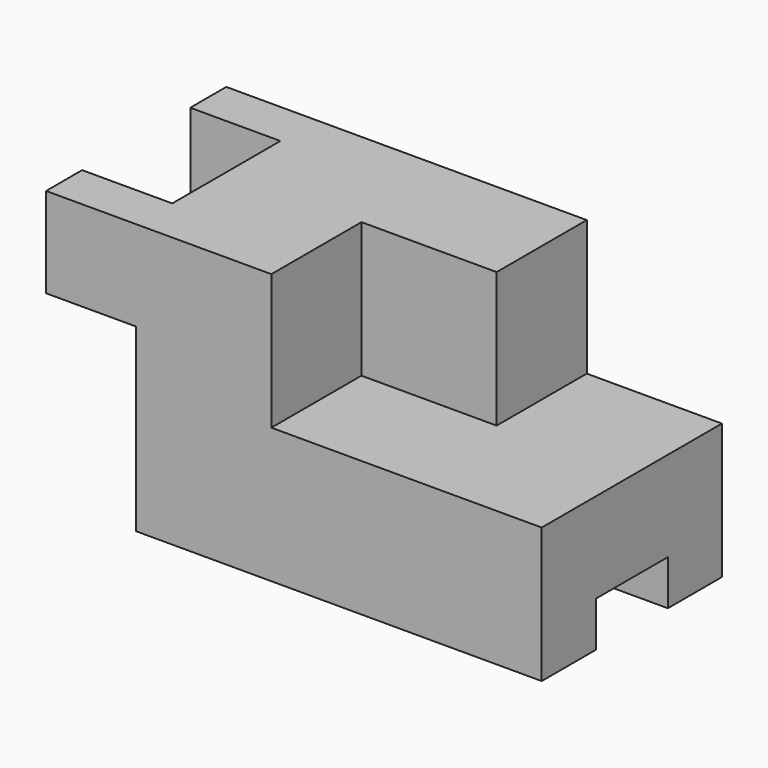
from build123d import *

# Parameters (mm, degrees)
F0_W     = 110
F0_H     = 50
F1_DEPTH = 60
F3_DEPTH = 30
F4_W     = 20
F4_H     = 20
F5_DEPTH = 110.001
F6_W     = 40
F6_H     = 30
F7_DEPTH = 60.001
F8_W     = 20
F8_H     = 40
F9_DEPTH = 50.001


with BuildPart() as f1:
    # F0 (on Top) → F1 (new body)
    with BuildSketch(Plane.XY):
        Rectangle(F0_W, F0_H)
    extrude(amount=F1_DEPTH)

    # F2 (on face) → F3 (cut)
    with BuildSketch(Plane.XY.offset(60)):
        Polygon((55, 25), (25, 25), (25, 0), (-5, 0), (-5, -25), (55, -25), align=None)
    extrude(amount=-F3_DEPTH, mode=Mode.SUBTRACT)

    # F4 (on face) → F5 (cut, through all)
    with BuildSketch(Plane.YZ.offset(55)):
        Rectangle(F4_W, F4_H)
    extrude(amount=-F5_DEPTH, mode=Mode.SUBTRACT)

    # F6 (on face) → F7 (cut, through all)
    with BuildSketch(Plane.XY.offset(60)):
        with Locations((-55, 0)):
            Rectangle(F6_W, F6_H)
    extrude(amount=-F7_DEPTH, mode=Mode.SUBTRACT)

    # F8 (on face) → F9 (cut, through all)
    with BuildSketch(Plane.XZ.offset(25)):
        with Locations((-45, 20)):
            Rectangle(F8_W, F8_H)
    extrude(amount=-F9_DEPTH, mode=Mode.SUBTRACT)


solid = f1.part
